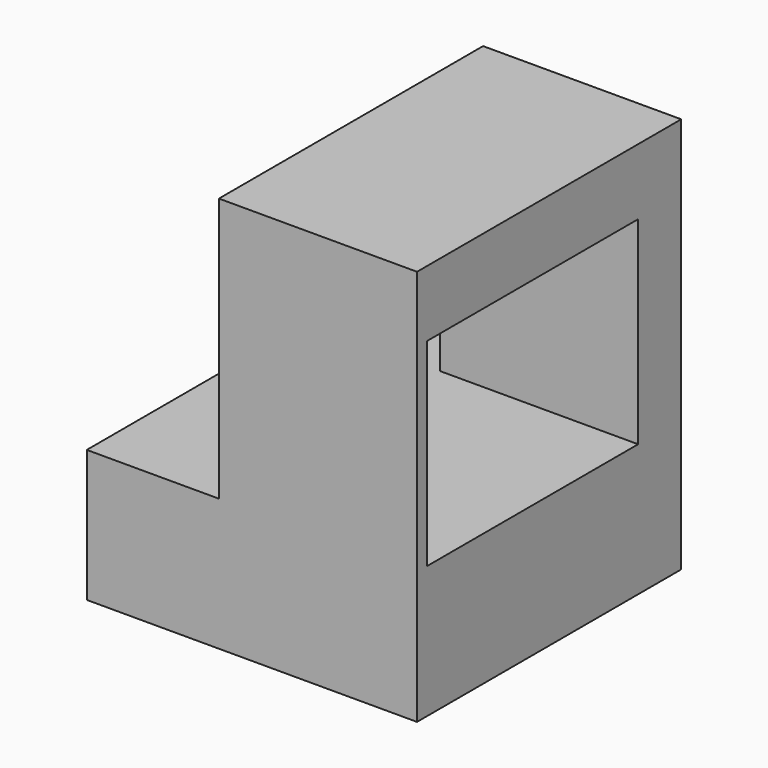
from build123d import *

# Parameters (mm, degrees)
F1_DEPTH = 63.5
F2_W     = 50.8
F2_H     = 38.1
F3_DEPTH = 50.8


with BuildPart() as f1:
    # F0 (on Front) → F1 (new body)
    with BuildSketch(Plane.XZ):
        Polygon((-34.019788, -29.926063), (-34.019788, -55.326063), (29.480212, -55.326063), (29.480212, 20.873937), (-8.619788, 20.873937), (-8.619788, -29.926063), align=None)
    extrude(amount=F1_DEPTH)

    # F2 (on face) → F3 (cut)
    with BuildSketch(Plane(origin=(-8.619788, 0, 0), x_dir=(0, -1, 0), z_dir=(-1, 0, 0))):
        with Locations((35.755906, -10.876063)):
            Rectangle(F2_W, F2_H)
    extrude(amount=-F3_DEPTH, mode=Mode.SUBTRACT)


solid = f1.part
